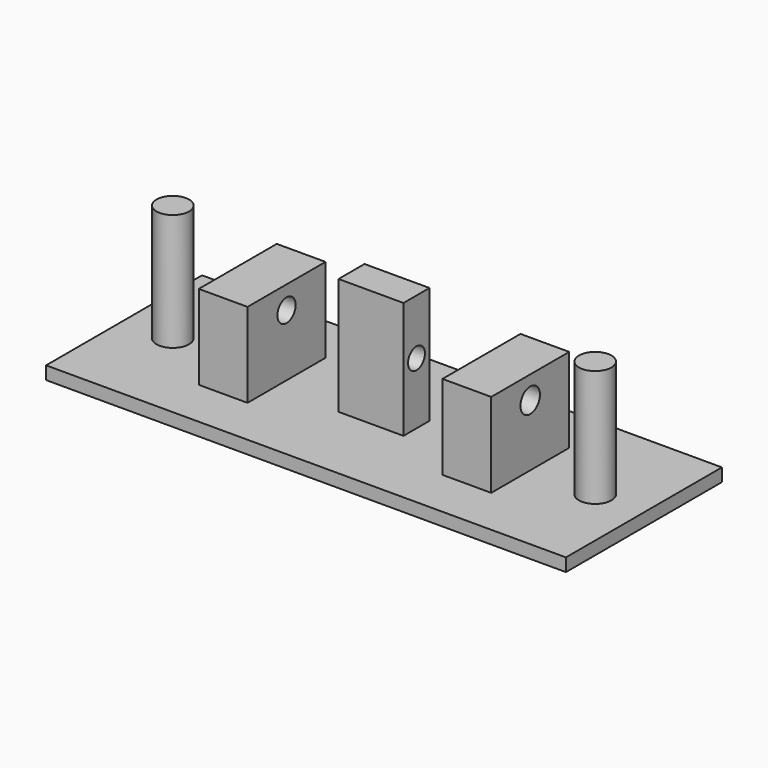
from build123d import *

# Parameters (mm, degrees)
F0_W     = 25.4
F0_H     = 12.7
F1_DEPTH = 50.8
F0_R     = 6.35
F0_W_2   = 19.05
F0_H_2   = 38.1
F2_DEPTH = 38.1
F3_DEPTH = 5.08
F5_DEPTH = 25.4
F6_R     = 4.1275
F7_DEPTH = 25.4
F8_R     = 4.445
F9_DEPTH = 25.4


with BuildPart() as f1:
    # F0 (on Top) → F1 (new body)
    with BuildSketch(Plane.XY):
        with Locations((-53.6319812462, 0)):
            Rectangle(F0_W, F0_H)
    extrude(amount=F1_DEPTH)



with BuildPart() as f1b:
    # F0 (on Top) → F1, piece 2 (new body)
    with BuildSketch(Plane.XY):
        with Locations((28.9180187538, 0)):
            Circle(F0_R)
    extrude(amount=F1_DEPTH)


with BuildPart() as f1c:
    # F0 (on Top) → F1, piece 3 (new body)
    with BuildSketch(Plane.XY):
        with Locations((-136.1819812462, 0)):
            Circle(F0_R)
    extrude(amount=F1_DEPTH)


with BuildPart() as f2:
    # F0 (on Top) → F2 (new body)
    with BuildSketch(Plane.XY):
        with Locations((-101.2569812462, 0)):
            Rectangle(F0_W_2, F0_H_2)
    extrude(amount=F2_DEPTH)


with BuildPart() as f2b:
    # F0 (on Top) → F2, piece 2 (new body)
    with BuildSketch(Plane.XY):
        with Locations((-6.0069812462, 0)):
            Rectangle(F0_W_2, F0_H_2)
    extrude(amount=F2_DEPTH)


with BuildPart() as f1_1:
    add(f1.part)

    add(f1b.part)  # F3 merges F1b

    add(f1c.part)  # F3 merges F1c

    add(f2.part)  # F3 merges F2

    add(f2b.part)  # F3 merges F2b
    # F0 (on Top) → F3 (join)
    with BuildSketch(Plane.XY):
        Polygon((47.9680187538, 38.1), (-155.2319812462, 38.1), (-155.2319812462, -38.1), (47.9680187538, -38.1), (47.9680187538, 0), align=None)
        with Locations((-136.1819812462, 0)):
            Circle(F0_R, mode=Mode.SUBTRACT)
        with Locations((-101.2569812462, 0)):
            Rectangle(F0_W_2, F0_H_2, mode=Mode.SUBTRACT)
        with Locations((-53.6319812462, 0)):
            Rectangle(F0_W, F0_H, mode=Mode.SUBTRACT)
        with Locations((-6.0069812462, 0)):
            Rectangle(F0_W_2, F0_H_2, mode=Mode.SUBTRACT)
        with Locations((28.9180187538, 0)):
            Circle(F0_R, mode=Mode.SUBTRACT)
    extrude(amount=F3_DEPTH)

    # F4 (on face) → F5 (cut)
    with BuildSketch(Plane.YZ.offset(3.5180187538)):
        with BuildLine():
            ThreePointArc((0, 33.9725), (-3.3675960454, 25.8424039546), (4.7625, 29.21))
            ThreePointArc((4.7625, 29.21), (3.3675960454, 32.5775960454), (0, 33.9725))
        make_face()
    extrude(amount=-F5_DEPTH, mode=Mode.SUBTRACT)

    # F6 (on face) → F7 (cut)
    with BuildSketch(Plane.YZ.offset(-40.9319812462)):
        with Locations((0, 29.21)):
            Circle(F6_R)
    extrude(amount=-F7_DEPTH, mode=Mode.SUBTRACT)

    # F8 (on face) → F9 (cut)
    with BuildSketch(Plane.YZ.offset(-91.7319812462)):
        with Locations((0, 29.21)):
            Circle(F8_R)
    extrude(amount=-F9_DEPTH, mode=Mode.SUBTRACT)


solid = f1_1.part
